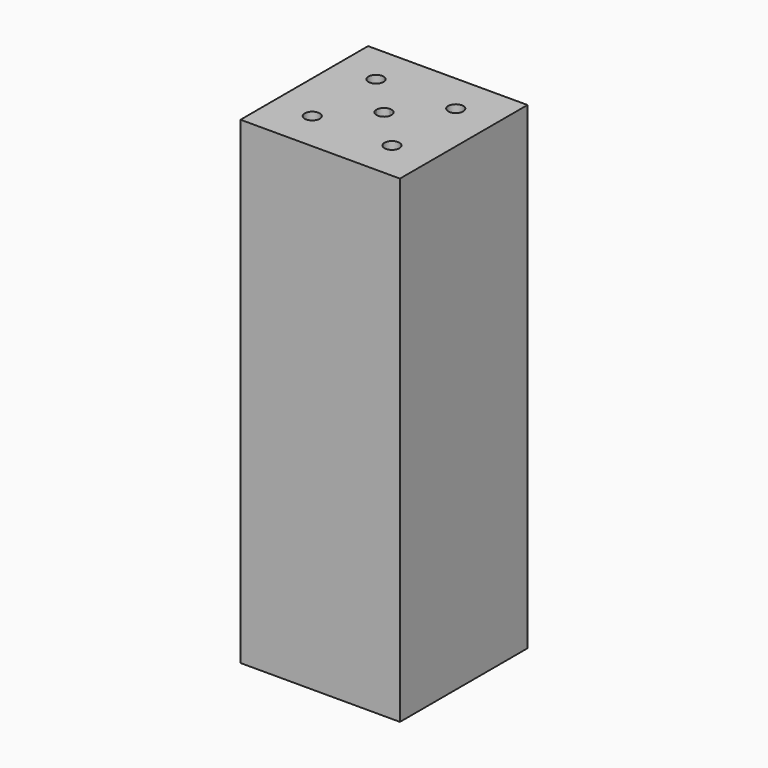
from build123d import *

# Parameters (mm, degrees)
F0_W     = 101.6
F0_H     = 101.6
F1_DEPTH = 304.8
F2_R     = 4.7625
F3_DEPTH = 25.4
F4_R     = 4.7625
F5_DEPTH = 25.4


with BuildPart() as f1:
    # F0 (on Top) → F1 (new body)
    with BuildSketch(Plane.XY):
        Rectangle(F0_W, F0_H)
    extrude(amount=F1_DEPTH)

    # F2 (on face) → F3 (cut)
    with BuildSketch(Plane.XY.offset(304.8)):
        with Locations((-25.4, 25.4)):
            Circle(F2_R)
        with Locations((25.4, 25.4)):
            Circle(F2_R)
        with Locations((25.4, -25.4)):
            Circle(F2_R)
        with BuildLine():
            Line((0, 0), (0, -4.7625))
            ThreePointArc((0, -4.7625), (3.3675960454, -3.3675960454), (4.7625, 0))
            Line((4.7625, 0), (0, 0))
        make_face()
        with BuildLine():
            Line((0, 4.7625), (0, 0))
            Line((0, 0), (4.7625, 0))
            ThreePointArc((4.7625, 0), (3.3675960454, 3.3675960454), (0, 4.7625))
        make_face()
        with BuildLine():
            ThreePointArc((0, 4.7625), (-3.3675960454, 3.3675960454), (-4.7625, 0))
            Line((-4.7625, 0), (0, 0))
            Line((0, 0), (0, 4.7625))
        make_face()
        with BuildLine():
            ThreePointArc((-4.7625, 0), (-3.3675960454, -3.3675960454), (0, -4.7625))
            Line((0, -4.7625), (0, 0))
            Line((0, 0), (-4.7625, 0))
        make_face()
        with Locations((-25.4, -25.4)):
            Circle(F2_R)
    extrude(amount=-F3_DEPTH, mode=Mode.SUBTRACT)

    # F4 (on face) → F5 (cut)
    with BuildSketch(Plane(origin=(0, 0, 0), x_dir=(1, 0, 0), z_dir=(0, 0, -1))):
        with Locations((-25.4, 25.4)):
            Circle(F4_R)
        with Locations((25.4, 25.4)):
            Circle(F4_R)
        with Locations((25.4, -25.4)):
            Circle(F4_R)
        with Locations((-25.4, -25.4)):
            Circle(F4_R)
        with BuildLine():
            Line((0, 0), (-4.7625, 0))
            ThreePointArc((-4.7625, 0), (-3.3675960454, -3.3675960454), (0, -4.7625))
            Line((0, -4.7625), (0, 0))
        make_face()
        with BuildLine():
            Line((0, 0), (0, 4.7625))
            ThreePointArc((0, 4.7625), (-3.3675960454, 3.3675960454), (-4.7625, 0))
            Line((-4.7625, 0), (0, 0))
        make_face()
        with BuildLine():
            ThreePointArc((4.7625, 0), (3.3675960454, 3.3675960454), (0, 4.7625))
            Line((0, 4.7625), (0, 0))
            Line((0, 0), (4.7625, 0))
        make_face()
        with BuildLine():
            Line((4.7625, 0), (0, 0))
            Line((0, 0), (0, -4.7625))
            ThreePointArc((0, -4.7625), (3.3675960454, -3.3675960454), (4.7625, 0))
        make_face()
    extrude(amount=-F5_DEPTH, mode=Mode.SUBTRACT)


solid = f1.part
